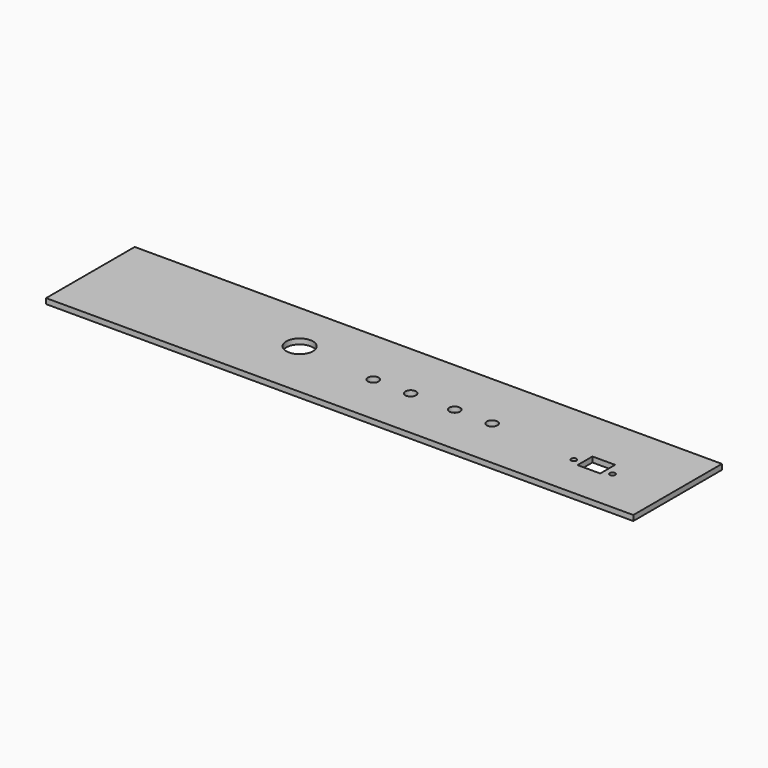
from build123d import *

# Parameters (mm, degrees)
F0_W     = 440
F0_H     = 83
F0_R     = 4
F0_R_2   = 2
F0_W_2   = 17
F0_H_2   = 14
F0_R_3   = 10
F1_DEPTH = 4


with BuildPart() as f1:
    # F0 (on Top) → F1 (new body)
    with BuildSketch(Plane.XY):
        with Locations((-6.442442, -3.5)):
            Rectangle(F0_W, F0_H)
        with Locations((-12.442442, -6)):
            Circle(F0_R, mode=Mode.SUBTRACT)
        with Locations((15.557558, -6)):
            Circle(F0_R, mode=Mode.SUBTRACT)
        with Locations((48.557558, -6)):
            Circle(F0_R, mode=Mode.SUBTRACT)
        with Locations((76.557558, -6)):
            Circle(F0_R, mode=Mode.SUBTRACT)
        with Locations((142.557558, -12)):
            Circle(F0_R_2, mode=Mode.SUBTRACT)
        with Locations((157.057558, -9)):
            Rectangle(F0_W_2, F0_H_2, mode=Mode.SUBTRACT)
        with Locations((171.557558, -12)):
            Circle(F0_R_2, mode=Mode.SUBTRACT)
        with Locations((-72.442442, 0)):
            Circle(F0_R_3, mode=Mode.SUBTRACT)
    extrude(amount=F1_DEPTH)


solid = f1.part
